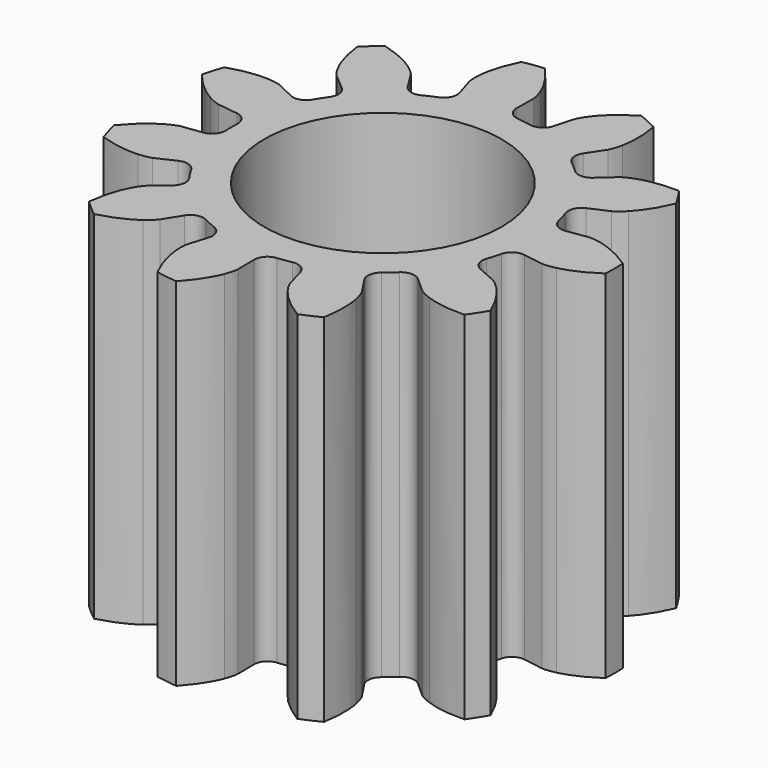
from build123d import *

# Parameters (mm, degrees)
PAD_DEPTH    = 1.5
SKETCH_R     = 0.5
POCKET_DEPTH = 1.501


with BuildPart() as part:
    # InvoluteGear → Pad (new body)
    with BuildSketch(Plane.XY):
        with BuildLine():
            Line((0.682885, -0.108596), (0.76798, -0.122))
            add(Edge.make_bspline(
                [(0.76798, -0.122), (0.774085, -0.122491), (0.792404, -0.123031), (0.823269, -0.11596)],
                knots=[0, 0, 0, 0, 1, 1, 1, 1], degree=3))
            add(Edge.make_bspline(
                [(0.823269, -0.11596), (0.859965, -0.107314), (0.912099, -0.087961), (0.974163, -0.045305)],
                knots=[0, 0, 0, 0, 1, 1, 1, 1], degree=3))
            ThreePointArc((0.974163, -0.045305), (0.975216, 0), (0.974163, 0.045305))
            add(Edge.make_bspline(
                [(0.974163, 0.045305), (0.912099, 0.087961), (0.859965, 0.107314), (0.823269, 0.11596)],
                knots=[0, 0, 0, 0, 1, 1, 1, 1], degree=3))
            add(Edge.make_bspline(
                [(0.823269, 0.11596), (0.792404, 0.123031), (0.774085, 0.122491), (0.76798, 0.122)],
                knots=[0, 0, 0, 0, 1, 1, 1, 1], degree=3))
            Line((0.76798, 0.122), (0.682885, 0.108596))
            ThreePointArc((0.682885, 0.108596), (0.642961, 0.11727), (0.619438, 0.150673))
            ThreePointArc((0.619438, 0.150673), (0.611677, 0.179605), (0.602565, 0.208139))
            ThreePointArc((0.602565, 0.208139), (0.604294, 0.248958), (0.633191, 0.277839))
            Line((0.633191, 0.277839), (0.712024, 0.312568))
            add(Edge.make_bspline(
                [(0.712024, 0.312568), (0.717425, 0.315456), (0.733128, 0.324906), (0.755271, 0.347541)],
                knots=[0, 0, 0, 0, 1, 1, 1, 1], degree=3))
            add(Edge.make_bspline(
                [(0.755271, 0.347541), (0.781467, 0.374654), (0.814862, 0.41912), (0.844012, 0.488559)],
                knots=[0, 0, 0, 0, 1, 1, 1, 1], degree=3))
            ThreePointArc((0.844012, 0.488559), (0.820404, 0.527242), (0.795025, 0.564785))
            add(Edge.make_bspline(
                [(0.795025, 0.564785), (0.719751, 0.567115), (0.665431, 0.555211), (0.629885, 0.542645)],
                knots=[0, 0, 0, 0, 1, 1, 1, 1], degree=3))
            add(Edge.make_bspline(
                [(0.629885, 0.542645), (0.600098, 0.531906), (0.584978, 0.521547), (0.580107, 0.517834)],
                knots=[0, 0, 0, 0, 1, 1, 1, 1], degree=3))
            Line((0.580107, 0.517834), (0.515768, 0.460552))
            ThreePointArc((0.515768, 0.460552), (0.477493, 0.446265), (0.439644, 0.461648))
            ThreePointArc((0.439644, 0.461648), (0.417474, 0.48179), (0.394381, 0.500869))
            ThreePointArc((0.394381, 0.500869), (0.373768, 0.536143), (0.382463, 0.576062))
            Line((0.382463, 0.576062), (0.430005, 0.647898))
            add(Edge.make_bspline(
                [(0.430005, 0.647898), (0.432988, 0.653248), (0.441089, 0.669688), (0.447479, 0.7007)],
                knots=[0, 0, 0, 0, 1, 1, 1, 1], degree=3))
            add(Edge.make_bspline(
                [(0.447479, 0.7007), (0.454859, 0.737672), (0.458912, 0.793134), (0.445893, 0.86731)],
                knots=[0, 0, 0, 0, 1, 1, 1, 1], degree=3))
            ThreePointArc((0.445893, 0.86731), (0.40512, 0.887088), (0.363471, 0.90495))
            add(Edge.make_bspline(
                [(0.363471, 0.90495), (0.298887, 0.866215), (0.259627, 0.826832), (0.236517, 0.797043)],
                knots=[0, 0, 0, 0, 1, 1, 1, 1], degree=3))
            add(Edge.make_bspline(
                [(0.236517, 0.797043), (0.217264, 0.771905), (0.210145, 0.755017), (0.208055, 0.74926)],
                knots=[0, 0, 0, 0, 1, 1, 1, 1], degree=3))
            Line((0.208055, 0.74926), (0.184899, 0.666286))
            ThreePointArc((0.184899, 0.666286), (0.160424, 0.633574), (0.120267, 0.626053))
            ThreePointArc((0.120267, 0.626053), (0.090726, 0.631011), (0.060985, 0.634576))
            ThreePointArc((0.060985, 0.634576), (0.024573, 0.653106), (0.010305, 0.691389))
            Line((0.010305, 0.691389), (0.011463, 0.777525))
            add(Edge.make_bspline(
                [(0.011463, 0.777525), (0.01108, 0.783638), (0.009008, 0.801848), (-0.002384, 0.831392)],
                knots=[0, 0, 0, 0, 1, 1, 1, 1], degree=3))
            add(Edge.make_bspline(
                [(-0.002384, 0.831392), (-0.016164, 0.866485), (-0.042739, 0.915333), (-0.093794, 0.970695)],
                knots=[0, 0, 0, 0, 1, 1, 1, 1], degree=3))
            ThreePointArc((-0.093794, 0.970695), (-0.138788, 0.96529), (-0.183482, 0.9578))
            add(Edge.make_bspline(
                [(-0.183482, 0.9578), (-0.216871, 0.890297), (-0.228607, 0.83594), (-0.231943, 0.798386)],
                knots=[0, 0, 0, 0, 1, 1, 1, 1], degree=3))
            add(Edge.make_bspline(
                [(-0.231943, 0.798386), (-0.234549, 0.76683), (-0.231408, 0.748774), (-0.230053, 0.7428)],
                knots=[0, 0, 0, 0, 1, 1, 1, 1], degree=3))
            Line((-0.230053, 0.7428), (-0.204675, 0.66048))
            ThreePointArc((-0.204675, 0.66048), (-0.207579, 0.619728), (-0.237295, 0.59169))
            ThreePointArc((-0.237295, 0.59169), (-0.264827, 0.57989), (-0.291774, 0.56681))
            ThreePointArc((-0.291774, 0.56681), (-0.332424, 0.562713), (-0.365124, 0.587205))
            Line((-0.365124, 0.587205), (-0.410718, 0.660293))
            add(Edge.make_bspline(
                [(-0.410718, 0.660293), (-0.414346, 0.665229), (-0.425934, 0.679427), (-0.45149, 0.698123)],
                knots=[0, 0, 0, 0, 1, 1, 1, 1], degree=3))
            add(Edge.make_bspline(
                [(-0.45149, 0.698123), (-0.482055, 0.720194), (-0.530821, 0.746921), (-0.603702, 0.765892)],
                knots=[0, 0, 0, 0, 1, 1, 1, 1], degree=3))
            ThreePointArc((-0.603702, 0.765892), (-0.638631, 0.737019), (-0.672181, 0.706555))
            add(Edge.make_bspline(
                [(-0.672181, 0.706555), (-0.663774, 0.631716), (-0.64426, 0.579643), (-0.626763, 0.546247)],
                knots=[0, 0, 0, 0, 1, 1, 1, 1], degree=3))
            add(Edge.make_bspline(
                [(-0.626763, 0.546247), (-0.611895, 0.518291), (-0.59949, 0.5048), (-0.595121, 0.500507)],
                knots=[0, 0, 0, 0, 1, 1, 1, 1], degree=3))
            Line((-0.595121, 0.500507), (-0.529266, 0.444975))
            ThreePointArc((-0.529266, 0.444975), (-0.509677, 0.409122), (-0.519517, 0.36947))
            ThreePointArc((-0.519517, 0.36947), (-0.536299, 0.344659), (-0.551897, 0.319086))
            ThreePointArc((-0.551897, 0.319086), (-0.583878, 0.293663), (-0.624629, 0.296588))
            Line((-0.624629, 0.296588), (-0.7025, 0.333423))
            add(Edge.make_bspline(
                [(-0.7025, 0.333423), (-0.708219, 0.335614), (-0.725645, 0.341293), (-0.757251, 0.343205)],
                knots=[0, 0, 0, 0, 1, 1, 1, 1], degree=3))
            add(Edge.make_bspline(
                [(-0.757251, 0.343205), (-0.794897, 0.345247), (-0.850371, 0.341366), (-0.921939, 0.317923)],
                knots=[0, 0, 0, 0, 1, 1, 1, 1], degree=3))
            ThreePointArc((-0.921939, 0.317923), (-0.935713, 0.27475), (-0.947467, 0.230984))
            add(Edge.make_bspline(
                [(-0.947467, 0.230984), (-0.899934, 0.17257), (-0.855365, 0.139313), (-0.822591, 0.120679)],
                knots=[0, 0, 0, 0, 1, 1, 1, 1], degree=3))
            add(Edge.make_bspline(
                [(-0.822591, 0.120679), (-0.794968, 0.105199), (-0.777239, 0.100556), (-0.771243, 0.099307)],
                knots=[0, 0, 0, 0, 1, 1, 1, 1], degree=3))
            Line((-0.771243, 0.099307), (-0.685818, 0.088194))
            ThreePointArc((-0.685818, 0.088194), (-0.649956, 0.068624), (-0.636796, 0.029946))
            ThreePointArc((-0.636796, 0.029946), (-0.6375, 0), (-0.636796, -0.029946))
            ThreePointArc((-0.636796, -0.029946), (-0.649956, -0.068624), (-0.685818, -0.088194))
            Line((-0.685818, -0.088194), (-0.771243, -0.099307))
            add(Edge.make_bspline(
                [(-0.771243, -0.099307), (-0.777239, -0.100556), (-0.794968, -0.105199), (-0.822591, -0.120679)],
                knots=[0, 0, 0, 0, 1, 1, 1, 1], degree=3))
            add(Edge.make_bspline(
                [(-0.822591, -0.120679), (-0.855365, -0.139313), (-0.899934, -0.17257), (-0.947467, -0.230984)],
                knots=[0, 0, 0, 0, 1, 1, 1, 1], degree=3))
            ThreePointArc((-0.947467, -0.230984), (-0.935713, -0.27475), (-0.921939, -0.317923))
            add(Edge.make_bspline(
                [(-0.921939, -0.317923), (-0.850371, -0.341366), (-0.794897, -0.345247), (-0.757251, -0.343205)],
                knots=[0, 0, 0, 0, 1, 1, 1, 1], degree=3))
            add(Edge.make_bspline(
                [(-0.757251, -0.343205), (-0.725645, -0.341293), (-0.708219, -0.335614), (-0.7025, -0.333423)],
                knots=[0, 0, 0, 0, 1, 1, 1, 1], degree=3))
            Line((-0.7025, -0.333423), (-0.624629, -0.296588))
            ThreePointArc((-0.624629, -0.296588), (-0.583878, -0.293663), (-0.551897, -0.319086))
            ThreePointArc((-0.551897, -0.319086), (-0.536299, -0.344659), (-0.519517, -0.36947))
            ThreePointArc((-0.519517, -0.36947), (-0.509677, -0.409122), (-0.529266, -0.444975))
            Line((-0.529266, -0.444975), (-0.595121, -0.500507))
            add(Edge.make_bspline(
                [(-0.595121, -0.500507), (-0.59949, -0.5048), (-0.611895, -0.518291), (-0.626763, -0.546247)],
                knots=[0, 0, 0, 0, 1, 1, 1, 1], degree=3))
            add(Edge.make_bspline(
                [(-0.626763, -0.546247), (-0.64426, -0.579643), (-0.663774, -0.631716), (-0.672181, -0.706555)],
                knots=[0, 0, 0, 0, 1, 1, 1, 1], degree=3))
            ThreePointArc((-0.672181, -0.706555), (-0.638631, -0.737019), (-0.603702, -0.765892))
            add(Edge.make_bspline(
                [(-0.603702, -0.765892), (-0.530821, -0.746921), (-0.482055, -0.720194), (-0.45149, -0.698123)],
                knots=[0, 0, 0, 0, 1, 1, 1, 1], degree=3))
            add(Edge.make_bspline(
                [(-0.45149, -0.698123), (-0.425934, -0.679427), (-0.414346, -0.665229), (-0.410718, -0.660293)],
                knots=[0, 0, 0, 0, 1, 1, 1, 1], degree=3))
            Line((-0.410718, -0.660293), (-0.365124, -0.587205))
            ThreePointArc((-0.365124, -0.587205), (-0.332424, -0.562713), (-0.291774, -0.56681))
            ThreePointArc((-0.291774, -0.56681), (-0.264827, -0.57989), (-0.237295, -0.59169))
            ThreePointArc((-0.237295, -0.59169), (-0.207579, -0.619728), (-0.204675, -0.66048))
            Line((-0.204675, -0.66048), (-0.230053, -0.7428))
            add(Edge.make_bspline(
                [(-0.230053, -0.7428), (-0.231408, -0.748774), (-0.234549, -0.76683), (-0.231943, -0.798386)],
                knots=[0, 0, 0, 0, 1, 1, 1, 1], degree=3))
            add(Edge.make_bspline(
                [(-0.231943, -0.798386), (-0.228607, -0.83594), (-0.216871, -0.890297), (-0.183482, -0.9578)],
                knots=[0, 0, 0, 0, 1, 1, 1, 1], degree=3))
            ThreePointArc((-0.183482, -0.9578), (-0.138788, -0.96529), (-0.093794, -0.970695))
            add(Edge.make_bspline(
                [(-0.093794, -0.970695), (-0.042739, -0.915333), (-0.016164, -0.866485), (-0.002384, -0.831392)],
                knots=[0, 0, 0, 0, 1, 1, 1, 1], degree=3))
            add(Edge.make_bspline(
                [(-0.002384, -0.831392), (0.009008, -0.801848), (0.01108, -0.783638), (0.011463, -0.777525)],
                knots=[0, 0, 0, 0, 1, 1, 1, 1], degree=3))
            Line((0.011463, -0.777525), (0.010305, -0.691389))
            ThreePointArc((0.010305, -0.691389), (0.024573, -0.653106), (0.060985, -0.634576))
            ThreePointArc((0.060985, -0.634576), (0.090726, -0.631011), (0.120267, -0.626053))
            ThreePointArc((0.120267, -0.626053), (0.160424, -0.633574), (0.184899, -0.666286))
            Line((0.184899, -0.666286), (0.208055, -0.74926))
            add(Edge.make_bspline(
                [(0.208055, -0.74926), (0.210145, -0.755017), (0.217264, -0.771905), (0.236517, -0.797043)],
                knots=[0, 0, 0, 0, 1, 1, 1, 1], degree=3))
            add(Edge.make_bspline(
                [(0.236517, -0.797043), (0.259627, -0.826832), (0.298887, -0.866215), (0.363471, -0.90495)],
                knots=[0, 0, 0, 0, 1, 1, 1, 1], degree=3))
            ThreePointArc((0.363471, -0.90495), (0.40512, -0.887088), (0.445893, -0.86731))
            add(Edge.make_bspline(
                [(0.445893, -0.86731), (0.458912, -0.793134), (0.454859, -0.737672), (0.447479, -0.7007)],
                knots=[0, 0, 0, 0, 1, 1, 1, 1], degree=3))
            add(Edge.make_bspline(
                [(0.447479, -0.7007), (0.441089, -0.669688), (0.432988, -0.653248), (0.430005, -0.647898)],
                knots=[0, 0, 0, 0, 1, 1, 1, 1], degree=3))
            Line((0.430005, -0.647898), (0.382463, -0.576062))
            ThreePointArc((0.382463, -0.576062), (0.373768, -0.536143), (0.394381, -0.500869))
            ThreePointArc((0.394381, -0.500869), (0.417474, -0.48179), (0.439644, -0.461648))
            ThreePointArc((0.439644, -0.461648), (0.477493, -0.446265), (0.515768, -0.460552))
            Line((0.515768, -0.460552), (0.580107, -0.517834))
            add(Edge.make_bspline(
                [(0.580107, -0.517834), (0.584978, -0.521547), (0.600098, -0.531906), (0.629885, -0.542645)],
                knots=[0, 0, 0, 0, 1, 1, 1, 1], degree=3))
            add(Edge.make_bspline(
                [(0.629885, -0.542645), (0.665431, -0.555211), (0.719751, -0.567115), (0.795025, -0.564785)],
                knots=[0, 0, 0, 0, 1, 1, 1, 1], degree=3))
            ThreePointArc((0.795025, -0.564785), (0.820404, -0.527242), (0.844012, -0.488559))
            add(Edge.make_bspline(
                [(0.844012, -0.488559), (0.814862, -0.41912), (0.781467, -0.374654), (0.755271, -0.347541)],
                knots=[0, 0, 0, 0, 1, 1, 1, 1], degree=3))
            add(Edge.make_bspline(
                [(0.755271, -0.347541), (0.733128, -0.324906), (0.717425, -0.315456), (0.712024, -0.312568)],
                knots=[0, 0, 0, 0, 1, 1, 1, 1], degree=3))
            Line((0.712024, -0.312568), (0.633191, -0.277839))
            ThreePointArc((0.633191, -0.277839), (0.604294, -0.248958), (0.602565, -0.208139))
            ThreePointArc((0.602565, -0.208139), (0.611677, -0.179605), (0.619438, -0.150673))
            ThreePointArc((0.619438, -0.150673), (0.642961, -0.11727), (0.682885, -0.108596))
        make_face()
    extrude(amount=PAD_DEPTH)

    # Sketch → Pocket (cut, through all)
    with BuildSketch(Plane.XY):
        Circle(SKETCH_R)
    extrude(amount=POCKET_DEPTH, mode=Mode.SUBTRACT)


solid = part.part
